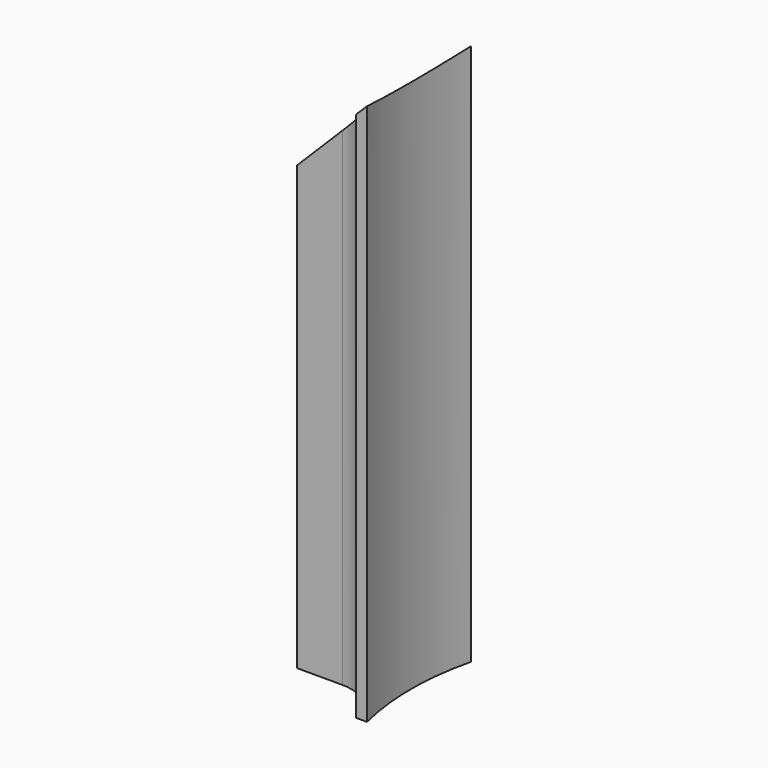
from build123d import *

# Parameters (mm, degrees)
PAD003_DEPTH            = 50
FILLET002_R             = 4
POCKET002_DEPTH         = 8.601
POCKET002_DEPTH_BACK    = 3.401
BODY004_PLACEMENT_ANGLE = 180


with BuildPart() as part:
    # Sketch006 → Pad003 (new body)
    with BuildSketch(Plane.XY):
        with BuildLine():
            ThreePointArc((24.269322, -6), (25, 0), (24.269322, 6))
            Line((24.269322, 6), (25.298221, 6))
            ThreePointArc((25.869673, 2.6), (25.640366, 4.309482), (25.298221, 6))
            Line((25.869673, 2.6), (33.451654, 2.6))
            Line((33.451654, 2.6), (33.451654, 1.6))
            Line((33.451654, 1.6), (26.451654, 1.6))
            Line((26.451654, 1.6), (26.451654, -1.6))
            Line((26.451654, -1.6), (33.451654, -1.6))
            Line((33.451654, -1.6), (33.451654, -2.6))
            Line((33.451654, -2.6), (25.869673, -2.6))
            ThreePointArc((25.298221, -6), (25.640366, -4.309482), (25.869673, -2.6))
            Line((24.269322, -6), (25.298221, -6))
        make_face()
    extrude(amount=PAD003_DEPTH)

    # Fillet002
    fillet002_edges = [part.edges().sort_by_distance(p)[0] for p in [
        (25.869673, -2.6, 25),
        (25.869673, 2.6, 25),
    ]]
    fillet(fillet002_edges, radius=FILLET002_R)

    # Sketch007 (on Face15 of Fillet002) → Pocket002 (cut, two sides)
    with BuildSketch(Plane.XZ.offset(2.6)) as pocket002_sk:
        Polygon((33.451654, 50), (33.451654, 40.817668), (24.269322, 50), align=None)
    extrude(amount=-POCKET002_DEPTH, mode=Mode.SUBTRACT)
    extrude(pocket002_sk.sketch, amount=POCKET002_DEPTH_BACK, mode=Mode.SUBTRACT)


with BuildPart() as part_1:
    # Body004 placement: moved
    add(part.part.rotate(Axis((0, 0, 0), (0, 0, 1)), BODY004_PLACEMENT_ANGLE))


solid = part_1.part
